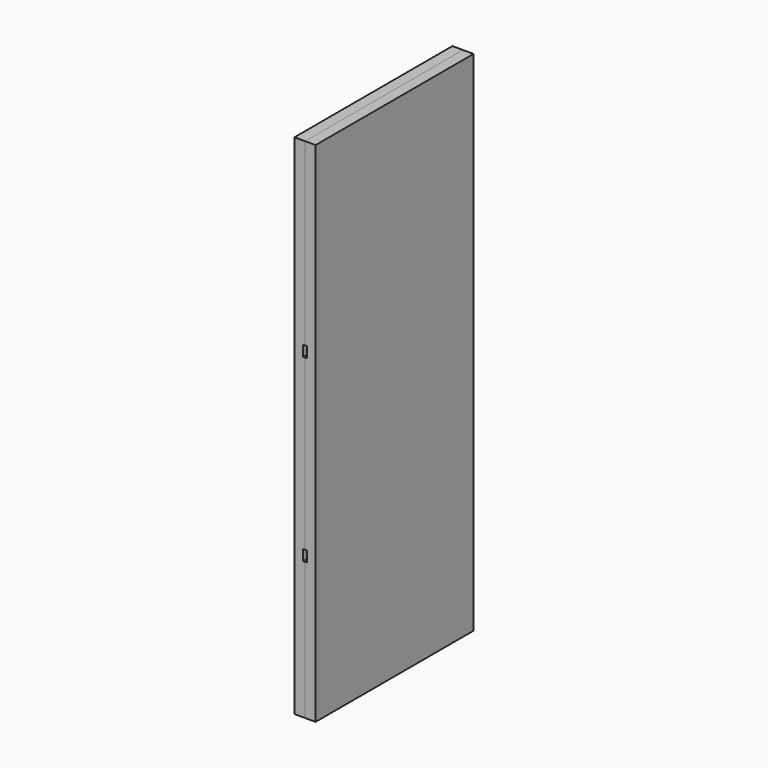
from build123d import *

# Parameters (mm, degrees)
F0_W     = 355.6
F0_H     = 323.85
F0_H_2   = 247.65
F0_H_3   = 304.8
F0_H_4   = 19.05
F1_DEPTH = 19.05
F2_DEPTH = 3.175


with BuildPart() as f1:
    # F0 (on Right) → F1 (new body)
    with BuildSketch(Plane.YZ):
        with Locations((-3694.770172, 2996.688328)):
            Rectangle(F0_W, F0_H)
        with Locations((-3694.770172, 2368.038328)):
            Rectangle(F0_W, F0_H_2)
        with Locations((-3694.770172, 2663.313328)):
            Rectangle(F0_W, F0_H_3)
        with Locations((-3694.770172, 2501.388328)):
            Rectangle(F0_W, F0_H_4)
        with Locations((-3694.770172, 2825.238328)):
            Rectangle(F0_W, F0_H_4)
    extrude(amount=F1_DEPTH)

    # F0 (on Right) → F2 (cut)
    with BuildSketch(Plane.YZ):
        with Locations((-3694.770172, 2825.238328)):
            Rectangle(F0_W, F0_H_4)
        with Locations((-3694.770172, 2501.388328)):
            Rectangle(F0_W, F0_H_4)
    extrude(amount=F2_DEPTH, mode=Mode.SUBTRACT)


with BuildPart() as f3_1:
    # F3: instance of F1
    add(f1.part.mirror(Plane.YZ))


solid = Compound([f1.part, f3_1.part])
